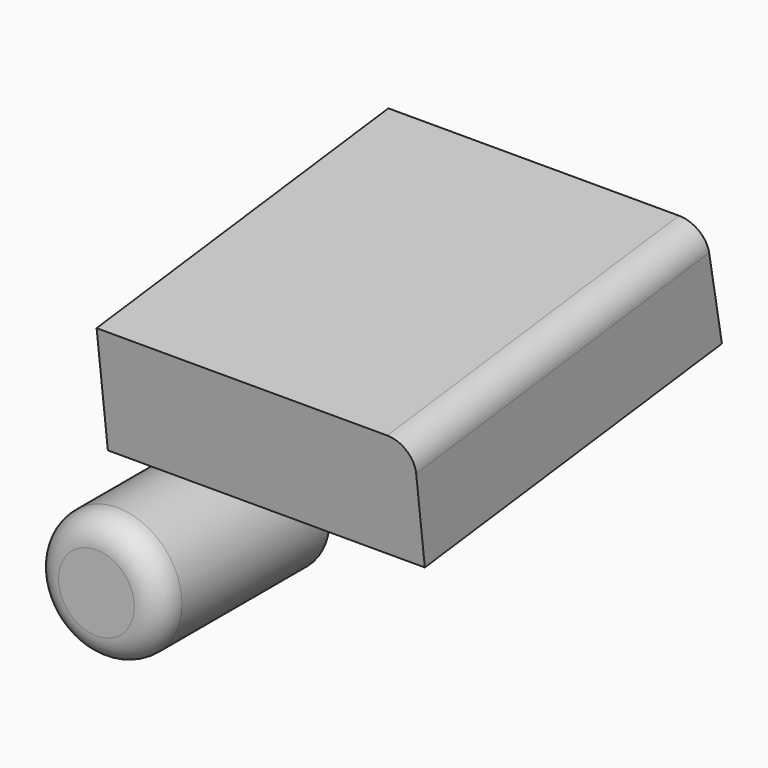
from build123d import *

# Parameters (mm, degrees)
F0_R     = 12.169944
F1_DEPTH = 40
F2_R     = 5
F4_DEPTH = 60
F5_R     = 5


with BuildPart() as f1:
    # F0 (on Front) → F1 (new body)
    with BuildSketch(Plane.XZ):
        Circle(F0_R)
    extrude(amount=F1_DEPTH)

    # F2
    f2_edges = [f1.edges().sort_by_distance(p)[0] for p in [
        (-12.169944, -40, 0),
    ]]
    fillet(f2_edges, radius=F2_R)


with BuildPart() as f4:
    # F3 (on Right) → F4 (new body)
    with BuildSketch(Plane.YZ):
        Polygon((29.054806, 52.674659), (-39.976977, 44.102501), (-37.312651, 22.646621), (32.983382, 31.375769), align=None)
    extrude(amount=F4_DEPTH)

    # F5
    f5_edges = [f4.edges().sort_by_distance(p)[0] for p in [
        (60, -5.461086, 48.38858),
    ]]
    fillet(f5_edges, radius=F5_R)


solid = Compound([f1.part, f4.part])
